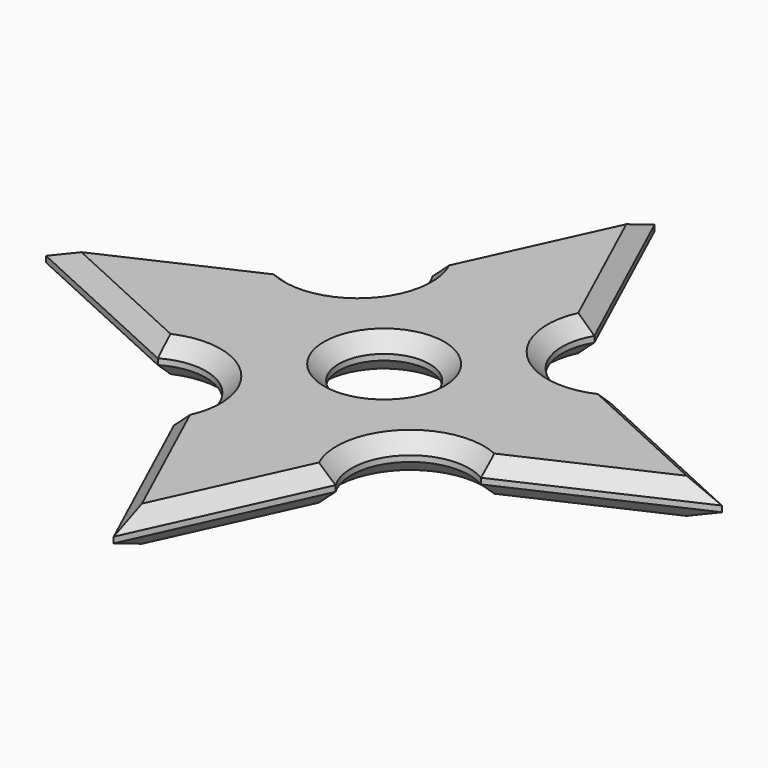
from build123d import *

# Parameters (mm, degrees)
F0_R     = 3.85
F1_DEPTH = 3
F2_SIZE  = 1.25


with BuildPart() as f1:
    # F0 (on Top) → F1 (new body)
    with BuildSketch(Plane.XY):
        with BuildLine():
            Line((-18.750145, 18.446719), (-25.60681, 18.446719))
            Line((-25.60681, 18.446719), (-32.463474, 18.446719))
            ThreePointArc((-32.463474, 18.446719), (-33.220297, 12.346877), (-39.320139, 11.590055))
            Line((-39.320139, 11.590055), (-39.320139, 4.73339))
            Line((-39.320139, 4.73339), (-39.320139, -2.123274))
            ThreePointArc((-39.320139, -2.123274), (-33.251475, -2.89857), (-32.476179, -8.967234))
            Line((-32.476179, -8.967234), (-25.619515, -8.967234))
            Line((-25.619515, -8.967234), (-18.76285, -8.967234))
            ThreePointArc((-18.76285, -8.967234), (-17.982262, -2.89791), (-11.911371, -2.129608))
            Line((-11.911371, -2.129608), (-11.905315, 4.727057))
            Line((-11.905315, 4.727057), (-11.899247, 11.595821))
            ThreePointArc((-11.899247, 11.595821), (-17.984845, 12.361121), (-18.750145, 18.446719))
        make_face()
        with Locations((-25.60681, 4.73339)):
            Circle(F0_R, mode=Mode.SUBTRACT)
        Polygon((-32.463474, 18.446719), (-25.60681, 18.446719), (-25.60681, 33.406714), align=None)
        Polygon((-25.60681, 33.406714), (-25.60681, 18.446719), (-18.750145, 18.446719), align=None)
        Polygon((-39.320139, 4.73339), (-39.320139, 11.590055), (-54.280134, 4.73339), align=None)
        Polygon((-39.320139, 4.73339), (-54.280134, 4.73339), (-39.320139, -2.123274), align=None)
        Polygon((3.048624, 4.727057), (-11.899247, 11.595821), (-11.905315, 4.727057), align=None)
        Polygon((-11.911371, -2.129608), (3.048624, 4.727057), (-11.905315, 4.727057), align=None)
        Polygon((-25.619515, -8.967234), (-32.476179, -8.967234), (-25.619515, -23.927229), align=None)
        Polygon((-25.619515, -8.967234), (-25.619515, -23.927229), (-18.76285, -8.967234), align=None)
    extrude(amount=F1_DEPTH)

    # F2
    f2_edges = [f1.edges().sort_by_distance(p)[0] for p in [
        (-4.425312, 8.161439, 3),
        (-17.984845, 12.361121, 3),
        (-22.178477, 25.926717, 3),
        (-29.035142, 25.926717, 3),
        (-33.220297, 12.346877, 3),
        (-46.800136, 8.161722, 3),
        (-46.800136, 1.305058, 3),
        (-33.251475, -2.89857, 3),
        (-29.047847, -16.447231, 3),
        (-22.191183, -16.447231, 3),
        (-17.982262, -2.89791, 3),
        (-4.431374, 1.298724, 3),
        (-29.45681, 4.73339, 3),
        (-4.425312, 8.161439, 0),
        (-17.984845, 12.361121, 0),
        (-22.178477, 25.926717, 0),
        (-29.035142, 25.926717, 0),
        (-33.220297, 12.346877, 0),
        (-46.800136, 8.161722, 0),
        (-46.800136, 1.305058, 0),
        (-33.251475, -2.89857, 0),
        (-29.047847, -16.447231, 0),
        (-22.191183, -16.447231, 0),
        (-17.982262, -2.89791, 0),
        (-4.431374, 1.298724, 0),
        (-29.45681, 4.73339, 0),
    ]]
    chamfer(f2_edges, length=F2_SIZE)


solid = f1.part
